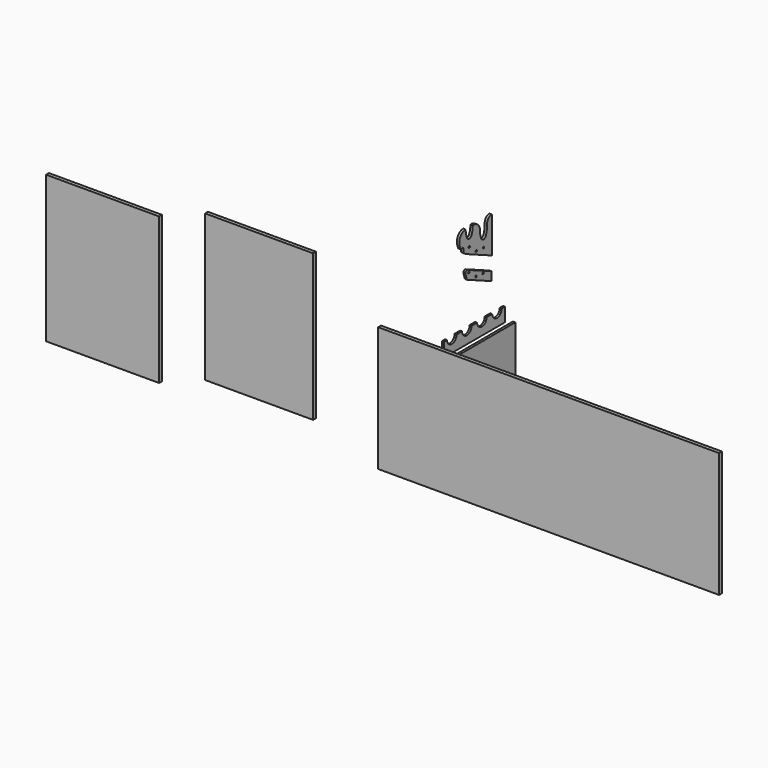
from build123d import *

# Parameters (mm, degrees)
F1_DEPTH  = 10
F3_DEPTH  = 12
F4_R      = 4.5
F5_DEPTH  = 10
F6_R      = 4.5
F7_DEPTH  = 12.001
F8_W      = 545
F8_H      = 740
F9_DEPTH  = 18
F10_W     = 570
F10_H     = 740
F11_DEPTH = 18
F12_W     = 1720
F12_H     = 630
F13_DEPTH = 18
F14_W     = 450
F14_H     = 300
F15_DEPTH = 12
F17_DEPTH = 25
F18_R     = 5


with BuildPart() as f1:
    # F0 (on Right) → F1 (new body)
    with BuildSketch(Plane.YZ):
        with BuildLine():
            Line((0, 70), (0, 0))
            Line((0, 0), (385, 0))
            Line((385, 0), (385, 70))
            Line((385, 70), (365, 70))
            ThreePointArc((365, 70), (335, 40), (305, 70))
            Line((305, 70), (270, 70))
            ThreePointArc((270, 70), (240, 40), (210, 70))
            Line((210, 70), (175, 70))
            ThreePointArc((175, 70), (145, 40), (115, 70))
            Line((115, 70), (80, 70))
            ThreePointArc((80, 70), (50, 40), (20, 70))
            Line((20, 70), (0, 70))
        make_face()
    extrude(amount=F1_DEPTH)


with BuildPart() as f3:
    # F2 (on Right) → F3 (new body)
    with BuildSketch(Plane.YZ):
        with BuildLine():
            ThreePointArc((261.1829268293, 433.8536585366), (247.5, 425), (233.8170731707, 433.8536585366))
            ThreePointArc((233.8170731707, 433.8536585366), (227.2290075864, 453.9597873399), (225, 475))
            ThreePointArc((225, 475), (213.2842712475, 503.2842712475), (185, 515))
            Line((185, 515), (180, 515))
            ThreePointArc((180, 515), (177.7709924136, 493.9597873399), (171.1829268293, 473.8536585366))
            ThreePointArc((171.1829268293, 473.8536585366), (157.5, 465), (143.8170731707, 473.8536585366))
            ThreePointArc((143.8170731707, 473.8536585366), (137.2290075864, 493.9597873399), (135, 515))
            ThreePointArc((135, 515), (106.7157287525, 503.2842712475), (95, 475))
            ThreePointArc((95, 475), (107.7961867785, 431.8007974109), (142.0559440231, 402.5402004596))
            Line((142.0559440231, 402.5402004596), (300, 332.2189760647))
            Line((300, 332.2189760647), (300, 515))
            ThreePointArc((300, 515), (278.7867965644, 506.2132034356), (270, 485))
            Line((270, 485), (270, 475))
            ThreePointArc((270, 475), (267.7709924136, 453.9597873399), (261.1829268293, 433.8536585366))
        make_face()
    extrude(amount=F3_DEPTH)

    # F6 (on face) → F7 (cut, through all)
    with BuildSketch(Plane.YZ.offset(12)):
        with Locations((157.5, 428.5031508404)):
            Circle(F6_R)
        with Locations((202.5, 392.0483158239)):
            Circle(F6_R)
        with Locations((247.5, 388.4325691626)):
            Circle(F6_R)
    extrude(amount=-F7_DEPTH, mode=Mode.SUBTRACT)

    # F16 (on face) → F17 (cut)
    with BuildSketch(Plane.YZ.offset(12)):
        with BuildLine():
            Line((90.5504003167, 426.0971546173), (120.258204639, 406.9633185863))
            Line((120.258204639, 406.9633185863), (120.258204639, 416.9582954822))
            ThreePointArc((120.258204639, 416.9582954822), (112.0061980519, 425.9229716498), (105.2246160535, 436.0457764538))
            Line((105.2246160535, 436.0457764538), (90.5504003167, 426.0971546173))
        make_face()
        with BuildLine():
            ThreePointArc((105.2246160535, 436.0457764538), (112.0061980519, 425.9229716498), (120.258204639, 416.9582954822))
            Line((120.258204639, 416.9582954822), (120.258204639, 436.8074358551))
            ThreePointArc((120.258204639, 436.8074358551), (117.6003234915, 441.2249554398), (112.4524129268, 440.9459782154))
            Line((112.4524129268, 440.9459782154), (105.2246160535, 436.0457764538))
        make_face()
    extrude(amount=-F17_DEPTH, mode=Mode.SUBTRACT)

    # F18
    f18_edges = [f3.edges().sort_by_distance(p)[0] for p in [
        (6, 105.224616, 436.045776),
    ]]
    fillet(f18_edges, radius=F18_R)


with BuildPart() as f5:
    # F4 (on Right) → F5 (new body)
    with BuildSketch(Plane.YZ):
        with BuildLine():
            Line((300, 217.7390417483), (300, 261.5244928885))
            Line((300, 261.5244928885), (149.8409993356, 328.3795873416))
            ThreePointArc((149.8409993356, 328.3795873416), (139.1766209866, 326.7594127832), (136.1881253443, 316.3949144854))
            Line((136.1881253443, 316.3949144854), (145, 286.7494879711))
            Line((145, 286.7494879711), (300, 217.7390417483))
        make_face()
        with Locations((202.5, 277.5683827434)):
            Circle(F4_R, mode=Mode.SUBTRACT)
        with Locations((157.5, 314.0232177599)):
            Circle(F4_R, mode=Mode.SUBTRACT)
        with Locations((247.5, 273.9526360821)):
            Circle(F4_R, mode=Mode.SUBTRACT)
    extrude(amount=F5_DEPTH)


with BuildPart() as f9:
    # F8 (on Front) → F9 (new body)
    with BuildSketch(Plane.XZ):
        with Locations((-907.9651194595, -109.3211390078)):
            Rectangle(F8_W, F8_H)
    extrude(amount=F9_DEPTH)


with BuildPart() as f11:
    # F10 (on face) → F11 (new body)
    with BuildSketch(Plane.XZ.offset(18)):
        with Locations((-1683.239766894, -186.2418979406)):
            Rectangle(F10_W, F10_H)
    extrude(amount=F11_DEPTH)


with BuildPart() as f13:
    # F12 (on face) → F13 (new body)
    with BuildSketch(Plane.XZ.offset(18)):
        with Locations((567.3415660858, -263.714271416)):
            Rectangle(F12_W, F12_H)
    extrude(amount=F13_DEPTH)


with BuildPart() as f15:
    # F14 (on Right) → F15 (new body)
    with BuildSketch(Plane.YZ):
        with Locations((222.9189515114, -174.8001635075)):
            Rectangle(F14_W, F14_H)
    extrude(amount=F15_DEPTH)


solid = Compound([f1.part, f3.part, f5.part, f9.part, f11.part, f13.part, f15.part])
